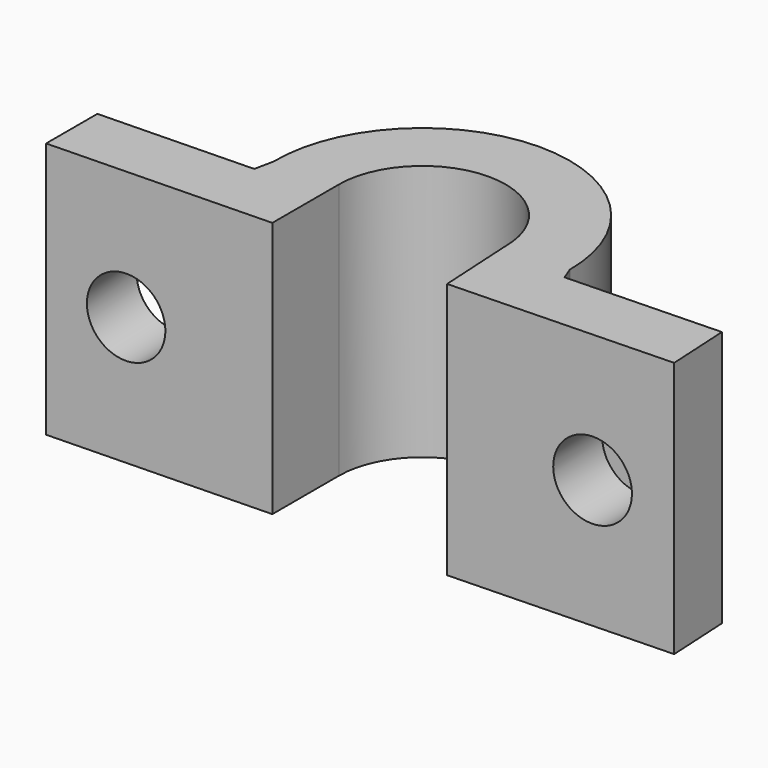
from build123d import *

# Parameters (mm, degrees)
F1_DEPTH = 10
F3_D     = 3
F3_DEPTH = 3.0903109718


with BuildPart() as f1:
    # F0 (on Top) → F1 (new body)
    with BuildSketch(Plane.XY):
        with BuildLine():
            ThreePointArc((-3.25, 0), (0, 3.25), (3.25, 0))
            Line((3.25, 0), (3.4209324932, -3.0695636297))
            Line((3.4209324932, -3.0695636297), (12.0716897967, -2.8145749293))
            Line((12.0716897967, -2.8145749293), (11.9365479262, -0.3182302667))
            Line((11.9365479262, -0.3182302667), (5.9391527118, -0.4950087796))
            Line((5.9391527118, -0.4950087796), (5.75, 0))
            ThreePointArc((5.75, 0), (-0.0406896787, 5.7498560286), (-5.7494241218, -0.0813773198))
            Line((-5.7494241218, -0.0813773198), (-5.9037103042, -0.8153362928))
            Line((-5.9037103042, -0.8153362928), (-11.9018925891, -0.963015937))
            Line((-11.9018925891, -0.963015937), (-11.9018925891, -3.463015937))
            Line((-11.9018925891, -3.463015937), (-3.25, -3.25))
            Line((-3.25, -3.25), (-3.25, 0))
        make_face()
    extrude(amount=F1_DEPTH)

    # F3 (through all, one way)
    with BuildSketch(Plane(origin=(0.01648547, -0.6695767335, 0), x_dir=(-0.9996970475, -0.024613274, 0), z_dir=(-0.024613274, 0.9996970475, 0))):
        with Locations((8.9219898559, 5), (-8.8890089243, 5)):
            Circle(F3_D / 2)
    extrude(amount=-F3_DEPTH, mode=Mode.SUBTRACT)


solid = f1.part
